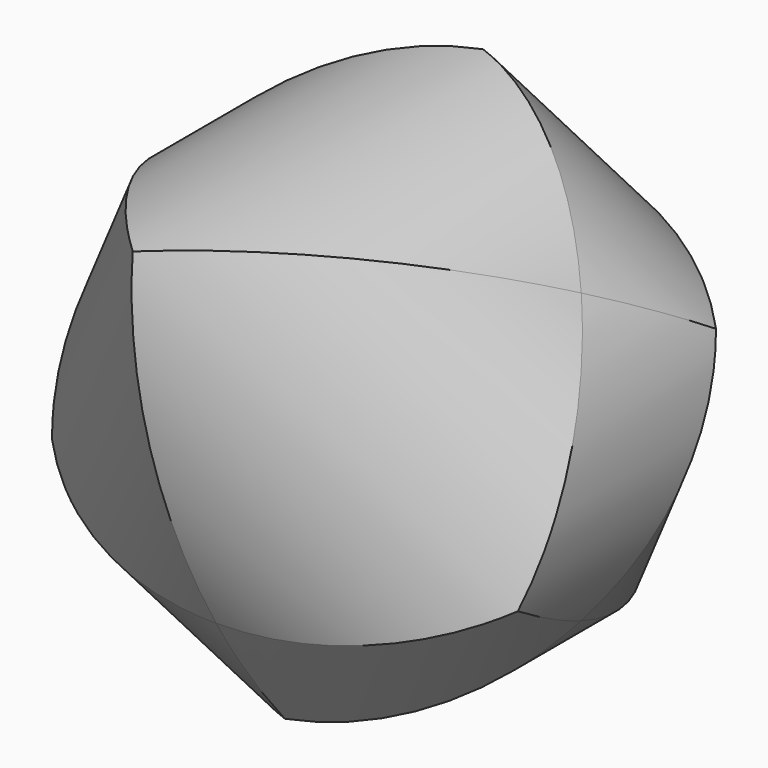
from build123d import *

# Parameters (mm, degrees)
F0_R     = 20.437105
F1_DEPTH = 40
F4_COUNT = 3


with BuildPart() as f1:
    # F0 (on Front) → F1 (new body, symmetric)
    with BuildSketch(Plane.XZ):
        Circle(F0_R)
    extrude(amount=F1_DEPTH, both=True)


with BuildPart() as f4_1:
    # F4: instance of F1
    add(f1.part.rotate(Axis((0, -14.142136, 11.003757), (0, -0.789235, 0.614091)), 1 * 360 / F4_COUNT))


with BuildPart() as f4_2:
    # F4: instance of F1
    add(f1.part.rotate(Axis((0, -14.142136, 11.003757), (0, -0.789235, 0.614091)), 2 * 360 / F4_COUNT))

    # F5: intersect F4_1, F1
    add(f4_1.part, mode=Mode.INTERSECT)
    add(f1.part, mode=Mode.INTERSECT)


solid = f4_2.part
